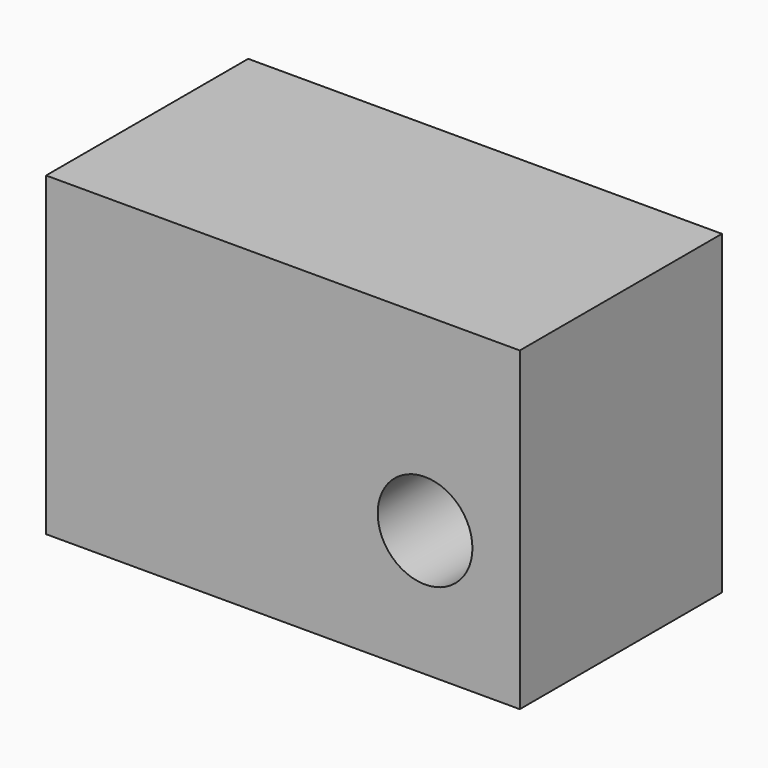
from build123d import *

# Parameters (mm, degrees)
F0_W     = 75
F0_H     = 50
F1_DEPTH = 20
F2_R     = 7.5
F3_DEPTH = 40


with BuildPart() as f1:
    # F0 (on Front) → F1 (new body, symmetric)
    with BuildSketch(Plane.XZ):
        with Locations((-22.5, 5)):
            Rectangle(F0_W, F0_H)
    extrude(amount=F1_DEPTH, both=True)

    # F2 (on face) → F3 (cut, through all)
    with BuildSketch(Plane.XZ.offset(20)):
        Circle(F2_R)
    extrude(amount=-F3_DEPTH, mode=Mode.SUBTRACT)


solid = f1.part
